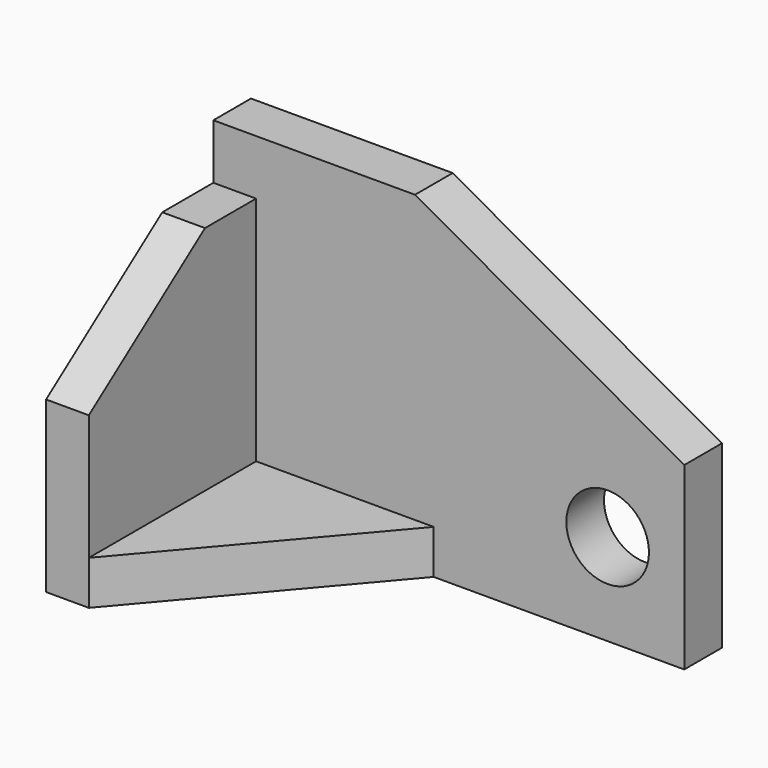
from build123d import *

# Parameters (mm, degrees)
F0_W      = 108.6182296276
F0_H      = 59.0771511197
F1_DEPTH  = 25.4
F2_W      = 108.6182296276
F2_H      = 10.8553785831
F3_DEPTH  = 50.8
F4_W      = 9.8601616919
F4_H      = 48.2217725366
F5_DEPTH  = 38.1
F7_DEPTH  = 25.4
F9_DEPTH  = 25.4
F11_DEPTH = 25.4
F13_D     = 19.05
F14_DEPTH = 15.24
F16_DEPTH = 15.24


with BuildPart() as f1:
    # F0 (on Top) → F1 (new body)
    with BuildSketch(Plane.XY):
        with Locations((3.4888088703, -3.9539821446)):
            Rectangle(F0_W, F0_H)
    extrude(amount=F1_DEPTH)

    # F2 (on face) → F3 (join)
    with BuildSketch(Plane.XY.offset(25.4)):
        with Locations((3.4888088703, 20.1569041237)):
            Rectangle(F2_W, F2_H)
    extrude(amount=F3_DEPTH)

    # F4 (on face) → F5 (join)
    with BuildSketch(Plane.XY.offset(25.4)):
        with Locations((-45.8902250975, -9.3816714361)):
            Rectangle(F4_W, F4_H)
    extrude(amount=F5_DEPTH)

    # F6 (on face) → F7 (cut)
    with BuildSketch(Plane.YZ.offset(-40.9601442516)):
        Polygon((-33.4925577044, 39.1064621508), (0, 63.5), (-33.4925577044, 63.5), align=None)
    extrude(amount=-F7_DEPTH, mode=Mode.SUBTRACT)

    # F8 (on face) → F9 (cut)
    with BuildSketch(Plane.XY.offset(25.4)):
        Polygon((57.7979236841, 14.7292148322), (0, 14.7292148322), (-40.9601442516, -33.4925577044), (57.7979236841, -33.4925577044), align=None)
    extrude(amount=-F9_DEPTH, mode=Mode.SUBTRACT)

    # F10 (on face) → F11 (cut)
    with BuildSketch(Plane.XZ.offset(-14.7292148322)):
        Polygon((57.7979236841, 76.2), (-4.3028630316, 76.2), (57.7979236841, 41.5174737573), align=None)
    extrude(amount=-F11_DEPTH, mode=Mode.SUBTRACT)

    # F13 (through all)
    with Locations(Plane.XZ.offset(-14.7292148322)):
        with Locations((40.121294558, 21.1239363998)):
            Hole(F13_D / 2)

    # F14 (add): a face of the model
    f14_faces = [f1.faces().sort_by_distance(p)[0] for p in [
        (-27.3067628344, -1.3447093467, 25.4),
    ]]
    extrude(f14_faces, amount=-F14_DEPTH)

    # F15 (on face) → F16 (cut)
    with BuildSketch(Plane.XY.offset(25.4)):
        Polygon((0, 14.7292148322), (-40.9601442516, 14.7292148322), (-40.9601442516, -33.4925577044), align=None)
    extrude(amount=-F16_DEPTH, mode=Mode.SUBTRACT)


solid = f1.part
